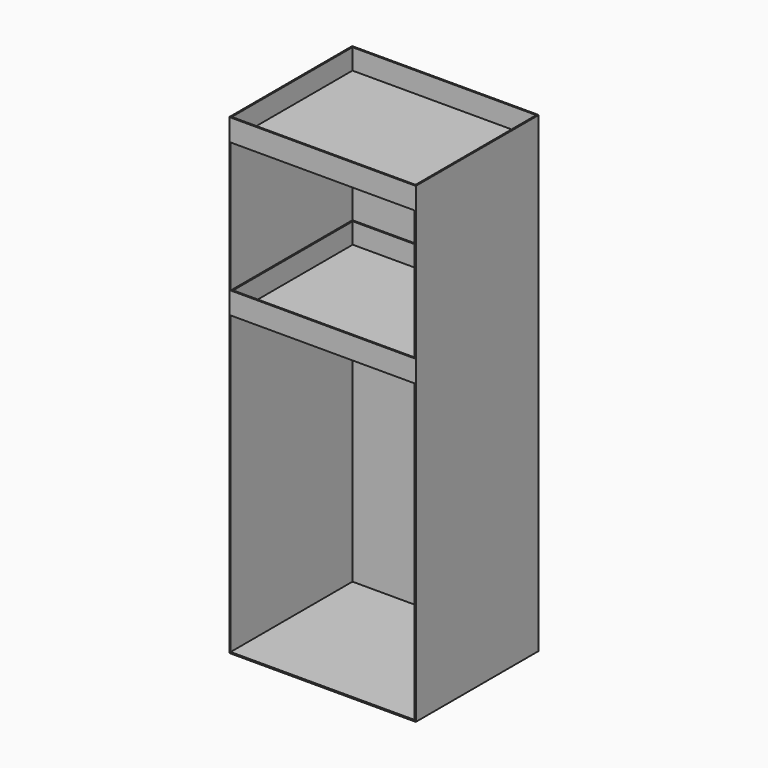
from build123d import *

# Parameters (mm, degrees)
F0_W     = 431.8
F0_H     = 1092.2
F1_DEPTH = 355.6
F2_W     = 425.45
F2_H     = 1038.225
F3_DEPTH = 352.425
F4_W     = 425.45
F4_H     = 50.8
F5_DEPTH = 352.425
F6_W     = 419.1
F6_H     = 346.075
F7_DEPTH = 47.625
F8_W     = 425.45
F8_H     = 349.25
F9_DEPTH = 47.625


with BuildPart() as f1:
    # F0 (on Front) → F1 (new body)
    with BuildSketch(Plane.XZ):
        Rectangle(F0_W, F0_H)
    extrude(amount=F1_DEPTH)

    # F2 (on face) → F3 (cut)
    with BuildSketch(Plane.XZ.offset(355.6)):
        with Locations((0, -23.8125)):
            Rectangle(F2_W, F2_H)
    extrude(amount=-F3_DEPTH, mode=Mode.SUBTRACT)

    # F4 (on face) → F5 (join, through all)
    with BuildSketch(Plane.XZ.offset(3.175)):
        with Locations((0, 168.275)):
            Rectangle(F4_W, F4_H)
    extrude(amount=F5_DEPTH)

    # F6 (on face) → F7 (cut)
    with BuildSketch(Plane.XY.offset(193.675)):
        with Locations((0, -179.3875)):
            Rectangle(F6_W, F6_H)
    extrude(amount=-F7_DEPTH, mode=Mode.SUBTRACT)

    # F8 (on face) → F9 (cut)
    with BuildSketch(Plane.XY.offset(546.1)):
        with Locations((0, -177.8)):
            Rectangle(F8_W, F8_H)
    extrude(amount=-F9_DEPTH, mode=Mode.SUBTRACT)


solid = f1.part
